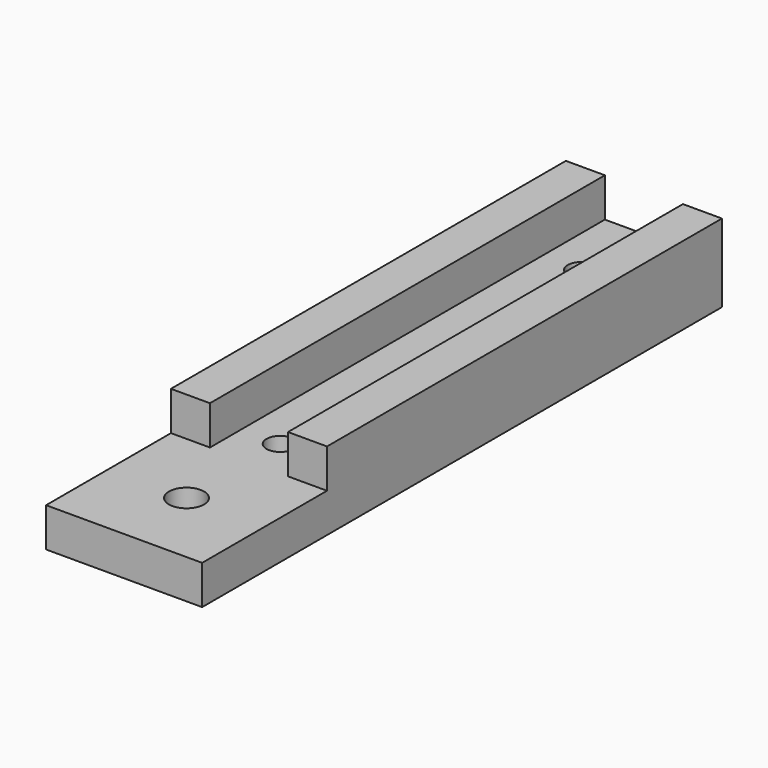
from build123d import *

# Parameters (mm, degrees)
SKETCH_W     = 20
SKETCH_H     = 83.26
SKETCH_R     = 1.75
SKETCH_R_2   = 2.25
PAD_DEPTH    = 5
SKETCH001_W  = 5
SKETCH001_H  = 63.26
PAD001_DEPTH = 5


with BuildPart() as part:
    # Sketch → Pad (new body)
    with BuildSketch(Plane.XY):
        with Locations((-48.41, -7.5)):
            Rectangle(SKETCH_W, SKETCH_H)
        with Locations((-48.41, -24.13)):
            Circle(SKETCH_R, mode=Mode.SUBTRACT)
        with Locations((-48.41, 24.13)):
            Circle(SKETCH_R, mode=Mode.SUBTRACT)
        with Locations((-48.41, -39.13)):
            Circle(SKETCH_R_2, mode=Mode.SUBTRACT)
    extrude(amount=PAD_DEPTH)

    # Sketch001 → Pad001 (new body)
    with BuildSketch(Plane.XY.offset(5)):
        with Locations((-40.91, 2.5)):
            Rectangle(SKETCH001_W, SKETCH001_H)
        with Locations((-55.91, 2.5)):
            Rectangle(SKETCH001_W, SKETCH001_H)
    extrude(amount=PAD001_DEPTH)


solid = part.part
